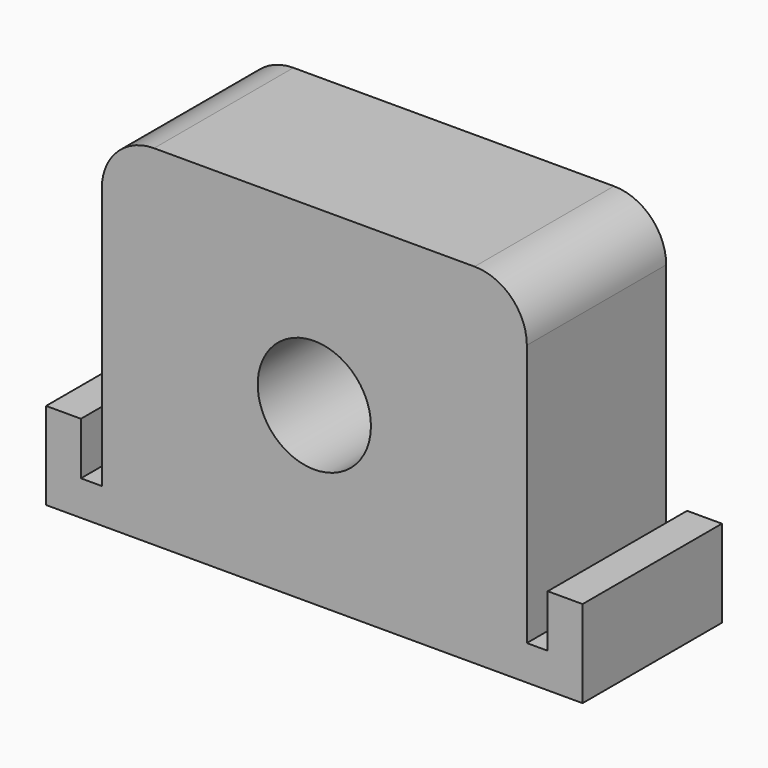
from build123d import *

# Parameters (mm, degrees)
F0_R     = 3.25
F1_DEPTH = 10


with BuildPart() as f1:
    # F0 (on Front) → F1 (new body)
    with BuildSketch(Plane.XZ):
        with BuildLine():
            Line((-13.4, -9.5), (-13.4, -6.540226))
            Line((-13.4, -6.540226), (-15.4, -6.540226))
            Line((-15.4, -6.540226), (-15.4, -11.55))
            Line((-15.4, -11.55), (15.4, -11.55))
            Line((15.4, -11.55), (15.4, -6.540226))
            Line((15.4, -6.540226), (13.4, -6.540226))
            Line((13.4, -6.540226), (13.4, -9.5))
            Line((13.4, -9.5), (13.4, -9.55))
            Line((13.4, -9.55), (12.2, -9.55))
            Line((12.2, -9.55), (12.2, -9.5))
            Line((12.2, -9.5), (12.2, 5.5))
            ThreePointArc((12.2, 5.5), (11.32132, 7.62132), (9.2, 8.5))
            Line((9.2, 8.5), (-9.2, 8.5))
            ThreePointArc((-9.2, 8.5), (-11.32132, 7.62132), (-12.2, 5.5))
            Line((-12.2, 5.5), (-12.2, -9.5))
            Line((-12.2, -9.5), (-12.2, -9.55))
            Line((-12.2, -9.55), (-13.4, -9.55))
            Line((-13.4, -9.55), (-13.4, -9.5))
        make_face()
        with Locations((0, -1.5)):
            Circle(F0_R, mode=Mode.SUBTRACT)
    extrude(amount=F1_DEPTH)


solid = f1.part
